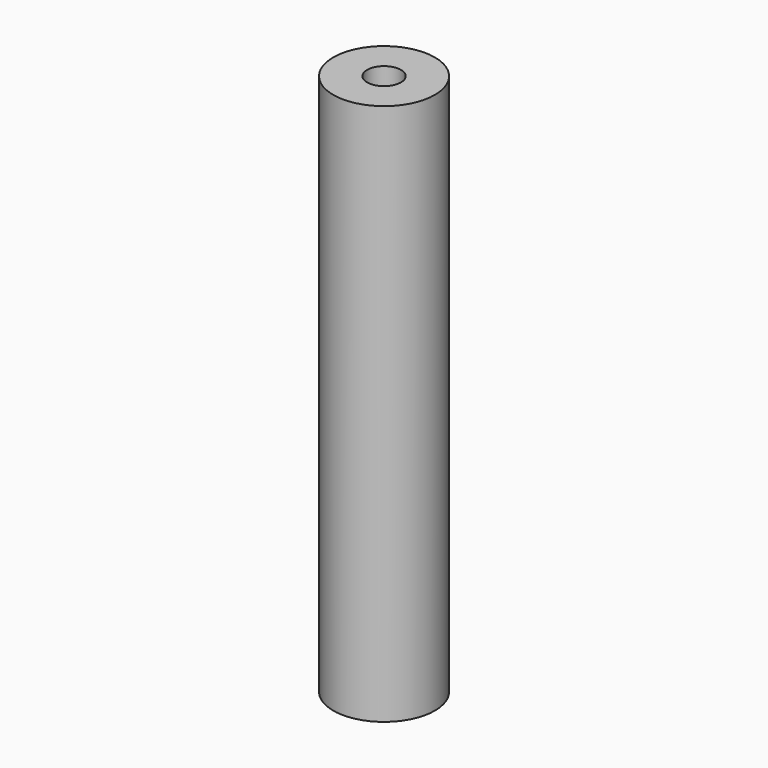
from build123d import *

# Parameters (mm, degrees)
F3_D     = 5
F3_DEPTH = 18
F3_TIP   = 1.5021515476
F5_D     = 5
F5_DEPTH = 18
F5_TIP   = 1.5021515476


with BuildPart() as f1:
    # F0 (on Front) → F1 (revolve)
    with BuildSketch(Plane.XZ):
        Polygon((7.5, 80), (2, 80), (2, 65), (0, 65), (0, 15), (2, 15), (2, 0), (7.5, 0), align=None)
    revolve(axis=Axis((0, 0, 48.5607869923), (0, 0, 1)))

    # F3
    with Locations(Plane.XY.offset(80)):
        with Locations((0, 0)):
            Hole(F3_D / 2, depth=F3_DEPTH)
            with Locations((0, 0, -(F3_DEPTH + F3_TIP / 2))):  # 118° drill point
                Cone(0, F3_D / 2, F3_TIP, mode=Mode.SUBTRACT)

    # F5
    with Locations(Plane(origin=(0, 0, 0), x_dir=(1, 0, 0), z_dir=(0, 0, -1))):
        with Locations((0, 0)):
            Hole(F5_D / 2, depth=F5_DEPTH)
            with Locations((0, 0, -(F5_DEPTH + F5_TIP / 2))):  # 118° drill point
                Cone(0, F5_D / 2, F5_TIP, mode=Mode.SUBTRACT)


solid = f1.part
